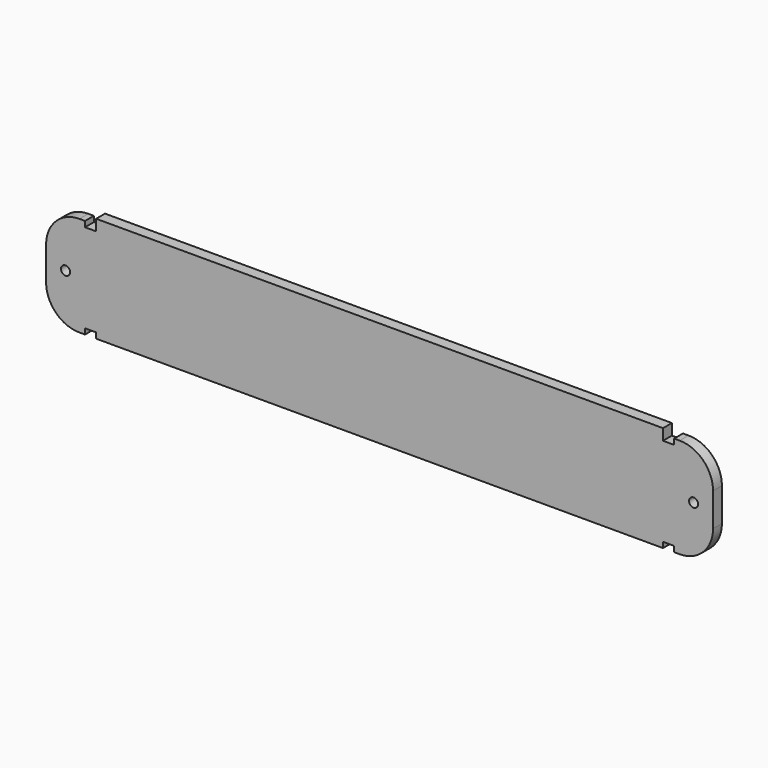
from build123d import *

# Parameters (mm, degrees)
F0_R     = 4.1
F1_DEPTH = 10
F2_R     = 30
F3_ANGLE = 90


with BuildPart() as f1:
    # F0 (on Top) → F1 (new body)
    with BuildSketch(Plane.XY):
        Polygon((-265, 45), (-300, 45), (-300, -45), (-265, -45), (-265, -40), (-255, -40), (-255, -45), (255, -45), (255, -40), (265, -40), (265, -45), (300, -45), (300, 45), (265, 45), (265, 40), (255, 40), (255, 50), (-255, 50), (-255, 40), (-265, 40), align=None)
        with Locations((-282.5, 0)):
            Circle(F0_R, mode=Mode.SUBTRACT)
        with Locations((282.5, 0)):
            Circle(F0_R, mode=Mode.SUBTRACT)
    extrude(amount=F1_DEPTH)

    # F2
    f2_edges = [f1.edges().sort_by_distance(p)[0] for p in [
        (-300, -45, 5),
        (-300, 45, 5),
        (300, 45, 5),
        (300, -45, 5),
    ]]
    fillet(f2_edges, radius=F2_R)


with BuildPart() as f1_1:
    # F3: moved
    add(f1.part.rotate(Axis((282.5, -45, 0), (1, 0, 0)), F3_ANGLE))


solid = f1_1.part
